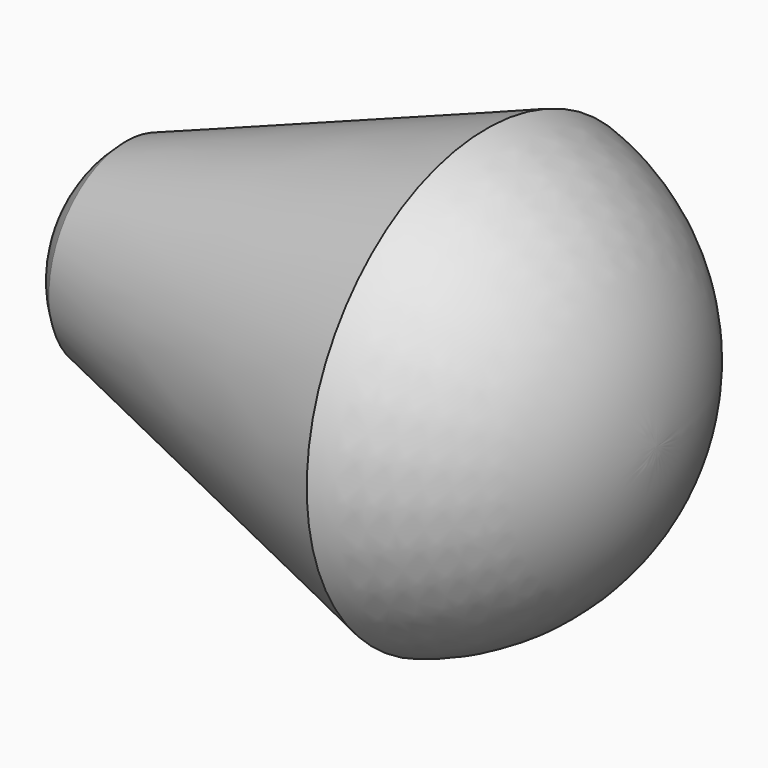
from build123d import *


with BuildPart() as f1:
    # F0 (on Top) → F1 (revolve)
    with BuildSketch(Plane.XY):
        with BuildLine():
            ThreePointArc((-30.278034, 12.585212), (-34.577346, 6.934286), (-36.104673, 0))
            Line((-36.104673, 0), (38.895327, 0))
            ThreePointArc((38.895327, 0), (32.723588, 18.37395), (16.71131, 29.296375))
            Line((16.71131, 29.296375), (-30.278034, 12.585212))
        make_face()
    revolve(axis=Axis((1.395327, 0, 0), (1, 0, 0)))


solid = f1.part
